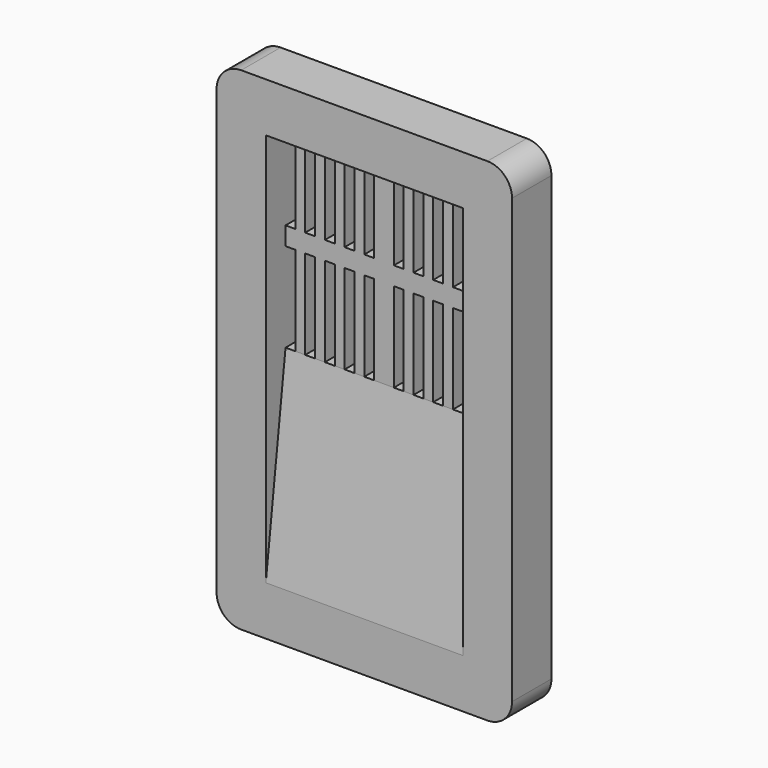
from build123d import *

# Parameters (mm, degrees)
F1_DEPTH = 12.7
F2_DEPTH = 6.35
F4_DEPTH = 25.4
F5_DEPTH = 25.4


with BuildPart() as f1:
    # F0 (on Front) → F1 (new body)
    with BuildSketch(Plane.XZ):
        with BuildLine():
            ThreePointArc((38.1, 57.15), (36.240128, 61.640128), (31.75, 63.5))
            Line((31.75, 63.5), (-31.75, 63.5))
            ThreePointArc((-31.75, 63.5), (-36.240128, 61.640128), (-38.1, 57.15))
            Line((-38.1, 57.15), (-38.1, -57.15))
            ThreePointArc((-38.1, -57.15), (-36.240128, -61.640128), (-31.75, -63.5))
            Line((-31.75, -63.5), (31.75, -63.5))
            ThreePointArc((31.75, -63.5), (36.240128, -61.640128), (38.1, -57.15))
            Line((38.1, -57.15), (38.1, 57.15))
        make_face()
        Polygon((22.86, 50.8), (25.4, 50.8), (25.4, 27.760267), (25.4, 23.039733), (25.4, 0), (25.4, -50.8), (-25.4, -50.8), (-25.4, 0), (-25.4, 23.039733), (-25.4, 27.760267), (-25.4, 50.8), (-22.86, 50.8), (-20.32, 50.8), (-17.78, 50.8), (-15.24, 50.8), (-12.7, 50.8), (-10.16, 50.8), (-7.62, 50.8), (-5.08, 50.8), (-2.54, 50.8), (0, 50.8), (2.54, 50.8), (5.08, 50.8), (7.62, 50.8), (10.16, 50.8), (12.7, 50.8), (15.24, 50.8), (17.78, 50.8), (20.32, 50.8), align=None, mode=Mode.SUBTRACT)
    extrude(amount=F1_DEPTH)

    # F0 (on Front) → F2 (join)
    with BuildSketch(Plane.XZ):
        Polygon((22.86, 27.760267), (22.86, 50.8), (20.32, 50.8), (20.32, 27.760267), (17.78, 27.760267), (17.78, 50.8), (15.24, 50.8), (15.24, 27.760267), (12.7, 27.760267), (12.7, 50.8), (10.16, 50.8), (10.16, 27.760267), (7.62, 27.760267), (7.62, 50.8), (5.08, 50.8), (5.08, 27.760267), (2.54, 27.760267), (2.54, 50.8), (0, 50.8), (-2.54, 50.8), (-2.54, 27.760267), (-5.08, 27.760267), (-5.08, 50.8), (-7.62, 50.8), (-7.62, 27.760267), (-10.16, 27.760267), (-10.16, 50.8), (-12.7, 50.8), (-12.7, 27.760267), (-15.24, 27.760267), (-15.24, 50.8), (-17.78, 50.8), (-17.78, 27.760267), (-20.32, 27.760267), (-20.32, 50.8), (-22.86, 50.8), (-22.86, 27.760267), (-25.4, 27.760267), (-25.4, 23.039733), (-22.86, 23.039733), (-22.86, 0), (-20.32, 0), (-20.32, 23.039733), (-17.78, 23.039733), (-17.78, 0), (-15.24, 0), (-15.24, 23.039733), (-12.7, 23.039733), (-12.7, 0), (-10.16, 0), (-10.16, 23.039733), (-7.62, 23.039733), (-7.62, 0), (-5.08, 0), (-5.08, 23.039733), (-2.54, 23.039733), (-2.54, 0), (0, 0), (2.54, 0), (2.54, 23.039733), (5.08, 23.039733), (5.08, 0), (7.62, 0), (7.62, 23.039733), (10.16, 23.039733), (10.16, 0), (12.7, 0), (12.7, 23.039733), (15.24, 23.039733), (15.24, 0), (17.78, 0), (17.78, 23.039733), (20.32, 23.039733), (20.32, 0), (22.86, 0), (22.86, 23.039733), (25.4, 23.039733), (25.4, 27.760267), align=None)
    extrude(amount=F2_DEPTH)

    # F3 (on Right) → F4 (join, through all)
    with BuildSketch(Plane.YZ):
        Polygon((0, -50.8), (0, 0), (-6.35, 0), (-12.7, -50.8), align=None)
    extrude(amount=F4_DEPTH)

    # F4_face (on face) → F5 (join, through all)
    with BuildSketch(Plane(origin=(0, -4.938889, -28.222222), x_dir=(0, 1, 0), z_dir=(-1, 0, 0))):
        Polygon((4.938889, -28.222222), (4.938889, 22.577778), (-7.761111, 22.577778), (-1.411111, -28.222222), align=None)
    extrude(amount=F5_DEPTH)


solid = f1.part
